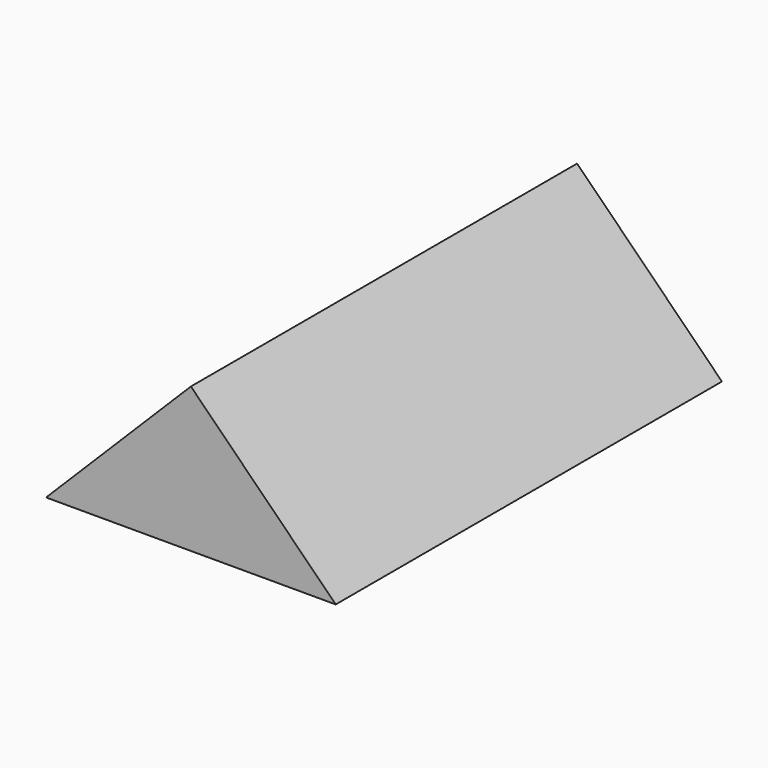
from build123d import *

# Parameters (mm, degrees)
EXTRUDE_DEPTH = 50


with BuildPart() as part:
    # Sketch → Extrude (new body)
    with BuildSketch(Plane.XZ):
        Polygon((-15, 0), (0, 15), (15, 0), align=None)
    extrude(amount=-EXTRUDE_DEPTH)


solid = part.part
